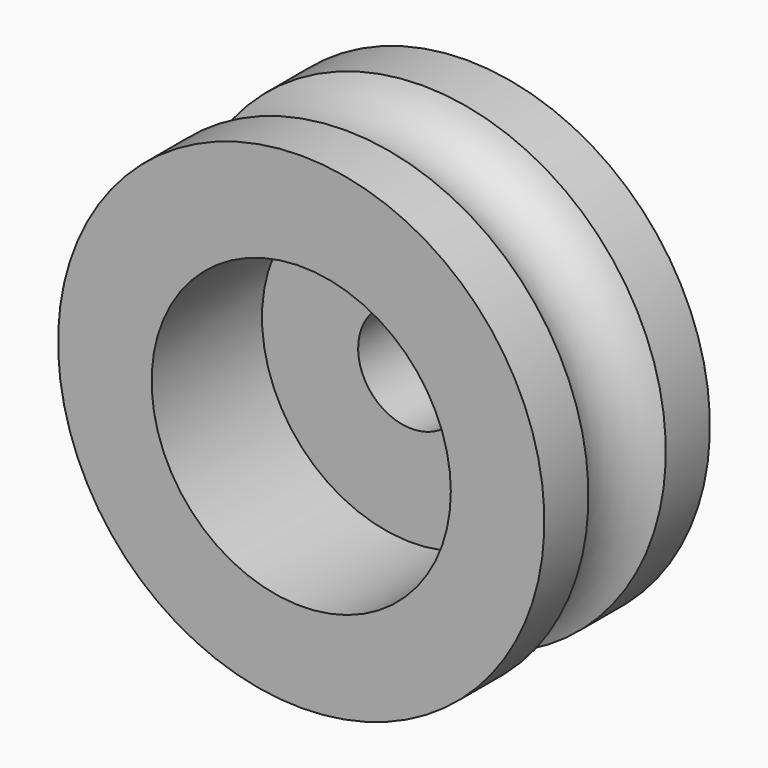
from build123d import *

# Parameters (mm, degrees)
F2_R     = 8.675
F2_R_2   = 3.1
F3_DEPTH = 8


with BuildPart() as f1:
    # F0 (on Right) → F1 (revolve)
    with BuildSketch(Plane.YZ):
        with BuildLine():
            Line((-6, 3.1), (0, 3.1))
            Line((0, 3.1), (6, 3.1))
            Line((6, 3.1), (6, 14.1))
            Line((6, 14.1), (2.803318, 14.1))
            ThreePointArc((2.803318, 14.1), (0, 12.191851), (-2.803318, 14.1))
            Line((-2.803318, 14.1), (-6, 14.1))
            Line((-6, 14.1), (-6, 3.1))
        make_face()
    revolve(axis=Axis((0, 0.144873, 0), (0, 1, 0)))

    # F2 (on face) → F3 (cut)
    with BuildSketch(Plane.XZ.offset(6)):
        with Locations((0, -0.234172)):
            Circle(F2_R)
        Circle(F2_R_2, mode=Mode.SUBTRACT)
    extrude(amount=-F3_DEPTH, mode=Mode.SUBTRACT)


solid = f1.part
